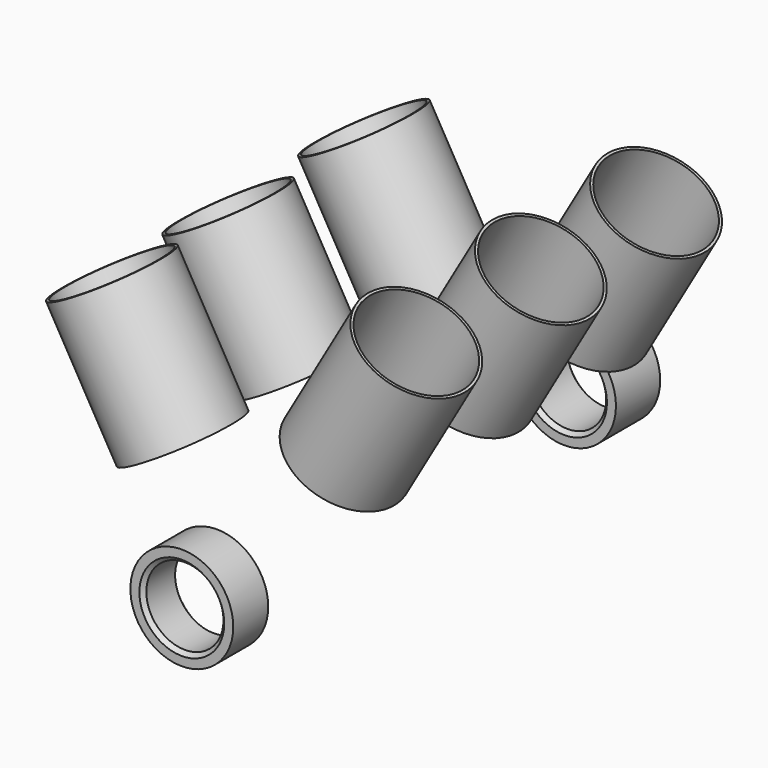
from build123d import *

# Parameters (mm, degrees)
F0_R      = 40
F0_R_2    = 30
F1_DEPTH  = 34
F3_R      = 40
F3_R_2    = 30
F4_DEPTH  = 43
F5_SIZE   = 3
F5_2_SIZE = 3
F8_START  = 90
F7_R      = 43.5
F7_R_2    = 41.465
F8_DEPTH  = 110


with BuildPart() as f1:
    # F0 (on Front) → F1 (new body)
    with BuildSketch(Plane.XZ):
        Circle(F0_R)
        Circle(F0_R_2, mode=Mode.SUBTRACT)
    extrude(amount=F1_DEPTH)

    # F5
    f5_edges = [f1.edges().sort_by_distance(p)[0] for p in [
        (-30, -34, 0),
        (-30, 0, 0),
    ]]
    chamfer(f5_edges, length=F5_SIZE)


with BuildPart() as f4:
    # F3 (on offset) → F4 (new body)
    with BuildSketch(Plane.XZ.offset(-338)):
        Circle(F3_R)
        Circle(F3_R_2, mode=Mode.SUBTRACT)
    extrude(amount=-F4_DEPTH)

    # F5#2
    f5_2_edges = [f4.edges().sort_by_distance(p)[0] for p in [
        (-30, 338, 0),
        (-30, 381, 0),
    ]]
    chamfer(f5_2_edges, length=F5_2_SIZE)


with BuildPart() as f8:
    # F7 (on face) → F8 (new body)
    with BuildSketch(Plane(origin=(0, 0, 0), x_dir=(0.8660254038, 0, 0.5), z_dir=(-0.5, 0, 0.8660254038)).offset(F8_START)):
        with Locations((-0.8627325296, 14)):
            Circle(F7_R)
        with Locations((-0.8627325296, 14)):
            Circle(F7_R_2, mode=Mode.SUBTRACT)
    extrude(amount=F8_DEPTH)


with BuildPart() as f8b:
    # F7 (on face) → F8, piece 2 (new body)
    with BuildSketch(Plane(origin=(0, 0, 0), x_dir=(0.8660254038, 0, 0.5), z_dir=(-0.5, 0, 0.8660254038)).offset(F8_START)):
        with Locations((0, 136)):
            Circle(F7_R)
        with Locations((0, 136)):
            Circle(F7_R_2, mode=Mode.SUBTRACT)
    extrude(amount=F8_DEPTH)


with BuildPart() as f8c:
    # F7 (on face) → F8, piece 3 (new body)
    with BuildSketch(Plane(origin=(0, 0, 0), x_dir=(0.8660254038, 0, 0.5), z_dir=(-0.5, 0, 0.8660254038)).offset(F8_START)):
        with Locations((0, 258)):
            Circle(F7_R)
        with Locations((0, 258)):
            Circle(F7_R_2, mode=Mode.SUBTRACT)
    extrude(amount=F8_DEPTH)


with BuildPart() as f9_1:
    # F9: instance of F8c
    add(f8c.part.mirror(Plane.YZ))


with BuildPart() as f9_2:
    # F9: instance of F8b
    add(f8b.part.mirror(Plane.YZ))


with BuildPart() as f9_3:
    # F9: instance of F8
    add(f8.part.mirror(Plane.YZ))


with BuildPart() as f9_3_1:
    # F10: moved
    add(f9_3.part.moved(Location((0, 44, 0))))


with BuildPart() as f9_2_1:
    # F10: moved
    add(f9_2.part.moved(Location((0, 44, 0))))


with BuildPart() as f9_1_1:
    # F10: moved
    add(f9_1.part.moved(Location((0, 44, 0))))


with BuildPart() as f8_1:
    # F11: moved
    add(f8.part.moved(Location((0, 10, 0))))


with BuildPart() as f9_3_2:
    # F11: moved
    add(f9_3_1.part.moved(Location((0, 10, 0))))


with BuildPart() as f9_2_2:
    # F11: moved
    add(f9_2_1.part.moved(Location((0, 10, 0))))


with BuildPart() as f8c_1:
    # F11: moved
    add(f8c.part.moved(Location((0, 10, 0))))


solid = Compound([f1.part, f4.part, f8b.part, f9_1_1.part, f8_1.part, f9_3_2.part, f9_2_2.part, f8c_1.part])
